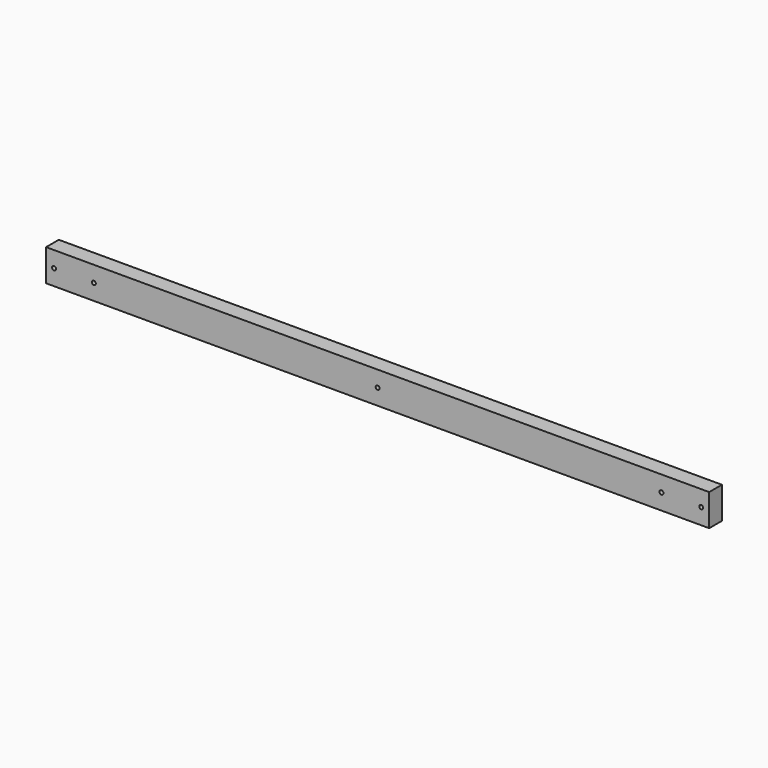
from build123d import *

# Parameters (mm, degrees)
SKETCH024_W     = 24
SKETCH024_H     = 48
PAD010_DEPTH    = 1000
SKETCH025_R     = 3
POCKET014_DEPTH = 24.001
SKETCH072_R     = 3
POCKET032_DEPTH = 24.001


with BuildPart() as part:
    # Sketch024 → Pad010 (new body)
    with BuildSketch(Plane.YZ):
        with Locations((12, 24)):
            Rectangle(SKETCH024_W, SKETCH024_H)
    extrude(amount=-PAD010_DEPTH)

    # Sketch025 (on Face4 of Pad010) → Pocket014 (cut, through all)
    with BuildSketch(Plane(origin=(0, 0, 0), x_dir=(0, 0, -1), z_dir=(0, -1, 0))):
        with Locations((-24, -12)):
            Circle(SKETCH025_R)
        with Locations((-24, -988)):
            Circle(SKETCH025_R)
    extrude(amount=-POCKET014_DEPTH, mode=Mode.SUBTRACT)

    # Sketch072 (on Face2 of Pocket014) → Pocket032 (cut, through all)
    with BuildSketch(Plane(origin=(0, 0, 0), x_dir=(0, 0, -1), z_dir=(0, -1, 0))):
        with Locations((-24, -928)):
            Circle(SKETCH072_R)
        with Locations((-24, -72)):
            Circle(SKETCH072_R)
        with Locations((-24, -500)):
            Circle(SKETCH072_R)
    extrude(amount=-POCKET032_DEPTH, mode=Mode.SUBTRACT)


with BuildPart() as part_1:
    # Body012 placement: moved
    add(part.part.moved(Location((24, -24, 78))))


solid = part_1.part
